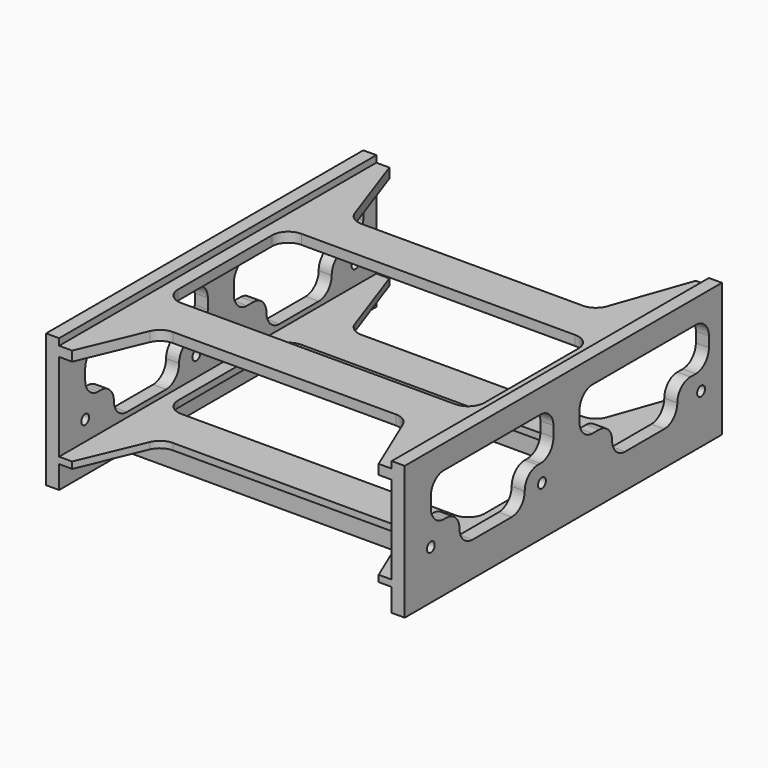
from build123d import *

# Parameters (mm, degrees)
F0_W     = 121.6
F0_H     = 41
F0_R     = 1.5
F1_DEPTH = 4
F2_W     = 121.6
F2_H     = 3
F3_DEPTH = 102
F5_DEPTH = 34.001
F6_W     = 121.6
F6_H     = 35.95
F6_R     = 1.5
F6_H_2   = 2.05
F6_H_3   = 3
F7_DEPTH = 4
F9_DEPTH = 110.001


with BuildPart() as f1:
    # F0 (on Right) → F1 (new body)
    with BuildSketch(Plane.YZ):
        with Locations((60.8, 20.5)):
            Rectangle(F0_W, F0_H)
        with Locations((10, 15)):
            Circle(F0_R, mode=Mode.SUBTRACT)
        with Locations((52.6, 15)):
            Circle(F0_R, mode=Mode.SUBTRACT)
        with Locations((113.6, 15)):
            Circle(F0_R, mode=Mode.SUBTRACT)
    extrude(amount=-F1_DEPTH)

    # F2 (on face) → F3 (join)
    with BuildSketch(Plane(origin=(-4, 0, 0), x_dir=(0, -1, 0), z_dir=(-1, 0, 0))):
        Polygon((0, 7), (0, 9), (-121.6, 9), (-121.6, 7), (-91.6, 7), (-91.6, 0), (-84.6, 0), (-84.6, 7), (-32.6, 7), (-32.6, 0), (-25.6, 0), (-25.6, 7), align=None)
        with Locations((-60.8, 37.45)):
            Rectangle(F2_W, F2_H)
    extrude(amount=F3_DEPTH)

    # F4 (on face) → F5 (cut, through all)
    with BuildSketch(Plane(origin=(0, 0, 7), x_dir=(1, 0, 0), z_dir=(0, 0, -1))):
        with BuildLine():
            Line((-8, -76.6), (-8, -40.6))
            ThreePointArc((-8, -40.6), (-9.4644660941, -37.0644660941), (-13, -35.6))
            Line((-13, -35.6), (-97, -35.6))
            ThreePointArc((-97, -35.6), (-100.5355339059, -37.0644660941), (-102, -40.6))
            Line((-102, -40.6), (-102, -76.6))
            ThreePointArc((-102, -76.6), (-100.5355339059, -80.1355339059), (-97, -81.6))
            Line((-97, -81.6), (-13, -81.6))
            ThreePointArc((-13, -81.6), (-9.4644660941, -80.1355339059), (-8, -76.6))
        make_face()
        with BuildLine():
            Line((-8, 0), (-102, 0))
            Line((-102, 0), (-93.7873133496, -19.5375492948))
            ThreePointArc((-93.7873133496, -19.5375492948), (-91.9449562371, -21.764597608), (-89.1779855536, -22.6))
            Line((-89.1779855536, -22.6), (-20.8220144464, -22.6))
            ThreePointArc((-20.8220144464, -22.6), (-18.0550437629, -21.764597608), (-16.2126866504, -19.5375492948))
            Line((-16.2126866504, -19.5375492948), (-8, 0))
        make_face()
        with BuildLine():
            Line((-8, -121.6), (-16.3246498167, -97.940468942))
            ThreePointArc((-16.3246498167, -97.940468942), (-18.1513722675, -95.5197025053), (-21.0412117709, -94.6))
            Line((-21.0412117709, -94.6), (-88.9587882291, -94.6))
            ThreePointArc((-88.9587882291, -94.6), (-91.8486277325, -95.5197025053), (-93.6753501833, -97.940468942))
            Line((-93.6753501833, -97.940468942), (-102, -121.6))
            Line((-102, -121.6), (-8, -121.6))
        make_face()
    extrude(amount=-F5_DEPTH, mode=Mode.SUBTRACT)

    # F6 (on face) → F7 (join)
    with BuildSketch(Plane(origin=(-106, 0, 0), x_dir=(0, -1, 0), z_dir=(-1, 0, 0))):
        with Locations((-60.8, 17.975)):
            Rectangle(F6_W, F6_H)
        with Locations((-113.6, 15)):
            Circle(F6_R, mode=Mode.SUBTRACT)
        with Locations((-52.6, 15)):
            Circle(F6_R, mode=Mode.SUBTRACT)
        with Locations((-10, 15)):
            Circle(F6_R, mode=Mode.SUBTRACT)
        with Locations((-60.8, 39.975)):
            Rectangle(F6_W, F6_H_2)
        with Locations((-60.8, 37.45)):
            Rectangle(F6_W, F6_H_3)
    extrude(amount=F7_DEPTH)

    # F8 (on Right) → F9 (cut, through all)
    with BuildSketch(Plane.YZ):
        with BuildLine():
            Line((52, 33.7), (15, 33.7))
            ThreePointArc((15, 33.7), (11.4644660941, 32.2355339059), (10, 28.7))
            Line((10, 28.7), (10, 25.5))
            ThreePointArc((10, 25.5), (11.4644660941, 21.9644660941), (15, 20.5))
            Line((15, 20.5), (16, 20.5))
            ThreePointArc((16, 20.5), (19.5355339059, 19.0355339059), (21, 15.5))
            ThreePointArc((21, 15.5), (22.4644660941, 11.9644660941), (26, 10.5))
            Line((26, 10.5), (41, 10.5))
            ThreePointArc((41, 10.5), (44.5355339059, 11.9644660941), (46, 15.5))
            ThreePointArc((46, 15.5), (47.4644660941, 19.0355339059), (51, 20.5))
            Line((51, 20.5), (52, 20.5))
            ThreePointArc((52, 20.5), (55.5355339059, 21.9644660941), (57, 25.5))
            Line((57, 25.5), (57, 28.7))
            ThreePointArc((57, 28.7), (55.5355339059, 32.2355339059), (52, 33.7))
        make_face()
        with BuildLine():
            Line((111.6, 33.7), (72, 33.7))
            ThreePointArc((72, 33.7), (68.4644660941, 32.2355339059), (67, 28.7))
            Line((67, 28.7), (67, 25.5))
            ThreePointArc((67, 25.5), (68.4644660941, 21.9644660941), (72, 20.5))
            Line((72, 20.5), (74.5, 20.5))
            ThreePointArc((74.5, 20.5), (78.0355339059, 19.0355339059), (79.5, 15.5))
            ThreePointArc((79.5, 15.5), (80.9644660941, 11.9644660941), (84.5, 10.5))
            Line((84.5, 10.5), (99.5, 10.5))
            ThreePointArc((99.5, 10.5), (103.0355339059, 11.9644660941), (104.5, 15.5))
            ThreePointArc((104.5, 15.5), (105.9644660941, 19.0355339059), (109.5, 20.5))
            Line((109.5, 20.5), (111.6, 20.5))
            ThreePointArc((111.6, 20.5), (115.1355339059, 21.9644660941), (116.6, 25.5))
            Line((116.6, 25.5), (116.6, 28.7))
            ThreePointArc((116.6, 28.7), (115.1355339059, 32.2355339059), (111.6, 33.7))
        make_face()
    extrude(amount=-F9_DEPTH, mode=Mode.SUBTRACT)


solid = f1.part
